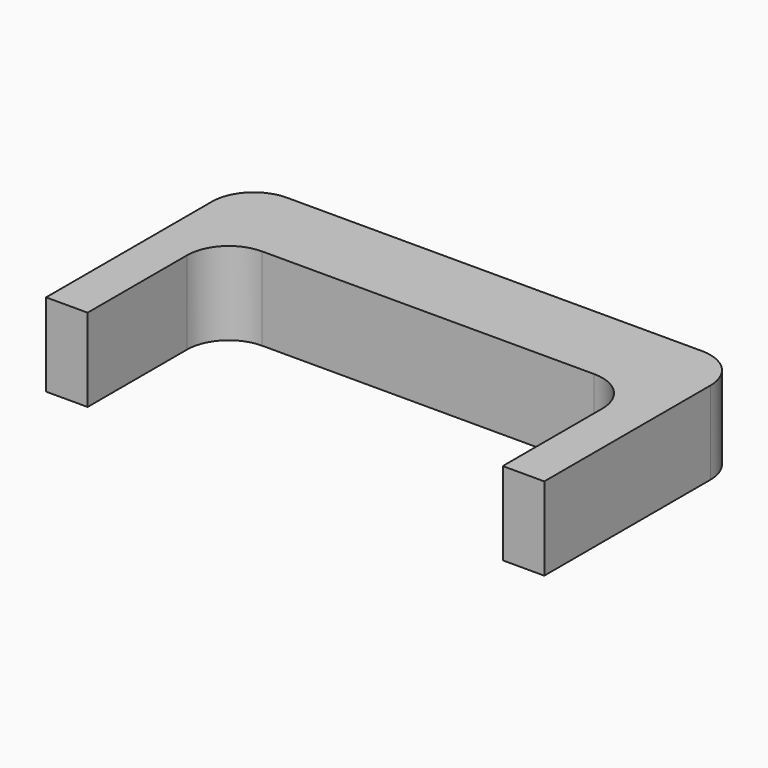
from build123d import *

# Parameters (mm, degrees)
F1_DEPTH = 25.4


with BuildPart() as f1:
    # F0 (on Top) → F1 (new body)
    with BuildSketch(Plane.XY):
        with BuildLine():
            Line((-147.938713, 0), (-135.238713, 0))
            Line((-135.238713, 0), (-135.238713, 38.1))
            ThreePointArc((-135.238713, 38.1), (-131.51897, 47.080256), (-122.538713, 50.8))
            Line((-122.538713, 50.8), (-20.938713, 50.8))
            ThreePointArc((-20.938713, 50.8), (-11.958457, 47.080256), (-8.238713, 38.1))
            Line((-8.238713, 38.1), (-8.238713, 0))
            Line((-8.238713, 0), (4.461287, 0))
            Line((4.461287, 0), (4.461287, 63.5))
            ThreePointArc((4.461287, 63.5), (0.741543, 72.480256), (-8.238713, 76.2))
            Line((-8.238713, 76.2), (-135.238713, 76.2))
            ThreePointArc((-135.238713, 76.2), (-144.21897, 72.480256), (-147.938713, 63.5))
            Line((-147.938713, 63.5), (-147.938713, 0))
        make_face()
    extrude(amount=F1_DEPTH)


solid = f1.part
